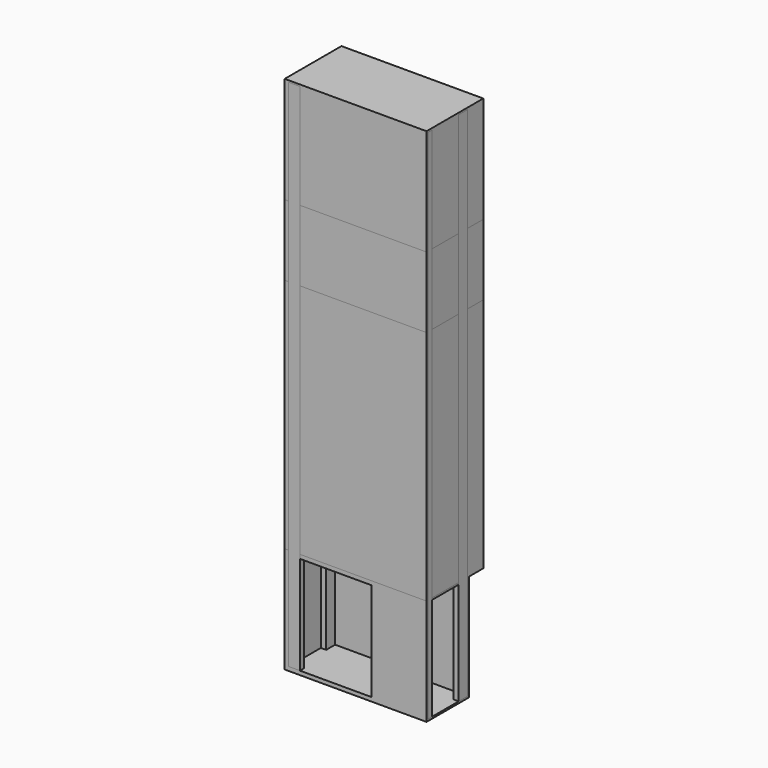
from build123d import *

# Parameters (mm, degrees)
F0_W      = 1200
F0_H      = 450
F1_DEPTH  = 900
F2_W      = 1200
F2_H      = 600
F3_DEPTH  = 2000
F4_W      = 1200
F4_H      = 600
F5_DEPTH  = 600
F6_W      = 1200
F6_H      = 600
F7_DEPTH  = 900
F8_W      = 420
F8_H      = 870
F9_DEPTH  = 300
F10_W     = 700
F10_H     = 832.8860864043
F11_DEPTH = 435
F12_W     = 1170
F12_H     = 1970
F13_DEPTH = 585
F14_W     = 1170
F14_H     = 570
F15_DEPTH = 585
F16_T     = -15
F17_W     = 95
F17_H     = 45
F18_DEPTH = 4370
F19_W     = 95
F19_H     = 45
F20_DEPTH = 4351.4430432022
F21_W     = 45
F21_H     = 95
F22_DEPTH = 4351.4430432022
F23_W     = 45
F23_H     = 95
F24_DEPTH = 4370


with BuildPart() as f1:
    # F0 (on Top) → F1 (new body)
    with BuildSketch(Plane.XY):
        with Locations((600, -225)):
            Rectangle(F0_W, F0_H)
    extrude(amount=-F1_DEPTH)

    # F8 (on face) → F9 (cut)
    with BuildSketch(Plane.YZ.offset(1200)):
        with Locations((-225, -450)):
            Rectangle(F8_W, F8_H)
    extrude(amount=-F9_DEPTH, mode=Mode.SUBTRACT)

    # F10 (on face) → F11 (cut)
    with BuildSketch(Plane.XZ.offset(450)):
        with Locations((383.5569567978, -450)):
            Rectangle(F10_W, F10_H)
    extrude(amount=-F11_DEPTH, mode=Mode.SUBTRACT)


with BuildPart() as f3:
    # F2 (on face) → F3 (new body)
    with BuildSketch(Plane.XY):
        with Locations((600, -150)):
            Rectangle(F2_W, F2_H)
    extrude(amount=F3_DEPTH)

    # F12 (on face) → F13 (cut)
    with BuildSketch(Plane(origin=(0, 150, 0), x_dir=(-1, 0, 0), z_dir=(0, 1, 0))):
        with Locations((-600, 1000)):
            Rectangle(F12_W, F12_H)
    extrude(amount=-F13_DEPTH, mode=Mode.SUBTRACT)


with BuildPart() as f5:
    # F4 (on face) → F5 (new body)
    with BuildSketch(Plane.XY.offset(2000)):
        with Locations((600, -150)):
            Rectangle(F4_W, F4_H)
    extrude(amount=F5_DEPTH)

    # F14 (on face) → F15 (cut)
    with BuildSketch(Plane(origin=(0, 150, 0), x_dir=(-1, 0, 0), z_dir=(0, 1, 0))):
        with Locations((-600, 2300)):
            Rectangle(F14_W, F14_H)
    extrude(amount=-F15_DEPTH, mode=Mode.SUBTRACT)


with BuildPart() as f7:
    # F6 (on face) → F7 (new body)
    with BuildSketch(Plane.XY.offset(2600)):
        with Locations((600, -150)):
            Rectangle(F6_W, F6_H)
    extrude(amount=F7_DEPTH)

    # F16
    f16_openings = [f7.faces().sort_by_distance(p)[0] for p in [
        (600, 150, 3050),
    ]]
    offset(amount=F16_T, openings=f16_openings)


with BuildPart() as f18:
    # F17 (on face) → F18 (new body, through all)
    with BuildSketch(Plane.XY.offset(-885)):
        with Locations((1152.5, -412.5)):
            Rectangle(F17_W, F17_H)
    extrude(amount=F18_DEPTH)


with BuildPart() as f20:
    # F19 (on face) → F20 (new body, through all)
    with BuildSketch(Plane.XY.offset(-866.4430432022)):
        with Locations((81.0569567978, -427.5)):
            Rectangle(F19_W, F19_H)
    extrude(amount=F20_DEPTH)


with BuildPart() as f22:
    # F21 (on face) → F22 (new body, through all)
    with BuildSketch(Plane.XY.offset(-866.4430432022)):
        with Locations((56.0569567978, -62.5)):
            Rectangle(F21_W, F21_H)
    extrude(amount=F22_DEPTH)


with BuildPart() as f24:
    # F23 (on face) → F24 (new body, through all)
    with BuildSketch(Plane.XY.offset(-885)):
        with Locations((1177.5, -62.5)):
            Rectangle(F23_W, F23_H)
    extrude(amount=F24_DEPTH)


solid = Compound([f1.part, f3.part, f5.part, f7.part, f18.part, f20.part, f22.part, f24.part])
